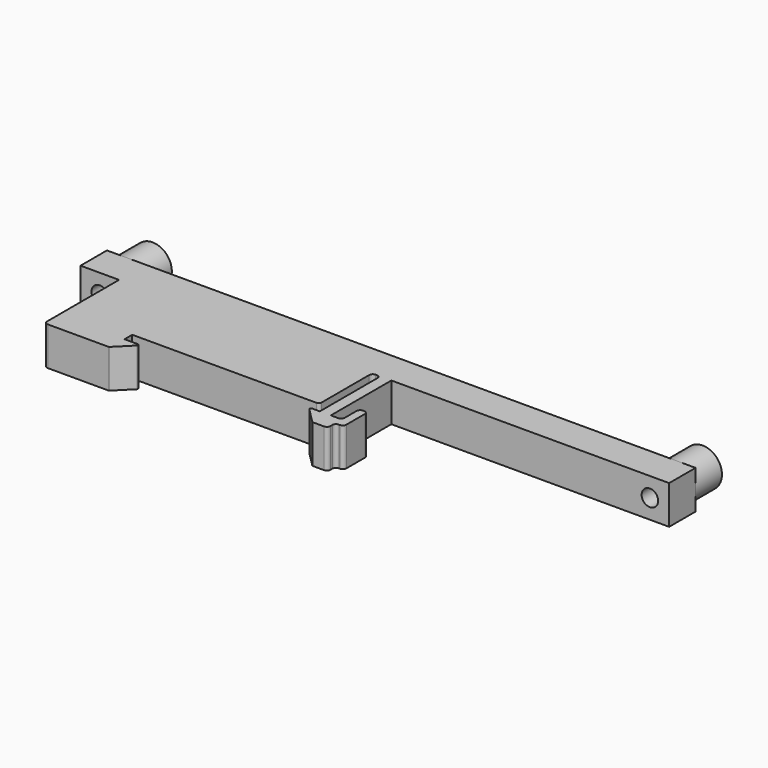
from build123d import *

# Parameters (mm, degrees)
F1_DEPTH = 3.5
F2_R     = 3.5
F3_DEPTH = 6
F4_R     = 1.5
F5_DEPTH = 29.001


with BuildPart() as f1:
    # F0 (on Top) → F1 (new body, symmetric)
    with BuildSketch(Plane.XY):
        with BuildLine():
            Line((0, -1.75), (0, 0))
            Line((0, 0), (33.5, 0))
            ThreePointArc((33.5, 0), (33.8535533906, 0.1464466094), (34, 0.5))
            Line((34, 0.5), (34, 11.35))
            ThreePointArc((34, 11.35), (34.1903805922, 11.8096194078), (34.65, 12))
            Line((34.65, 12), (34.85, 12))
            ThreePointArc((34.85, 12), (35.3096194078, 11.8096194078), (35.5, 11.35))
            Line((35.5, 11.35), (35.5, -1.75))
            Line((35.5, -1.75), (34.1035533906, -1.75))
            ThreePointArc((34.1035533906, -1.75), (33.8725835075, -1.9043291419), (33.9267766953, -2.1767766953))
            Line((33.9267766953, -2.1767766953), (36.6767766953, -4.9267766953))
            ThreePointArc((36.6767766953, -4.9267766953), (36.7578825325, -4.9809698831), (36.8535533906, -5))
            Line((36.8535533906, -5), (38.85, -5))
            ThreePointArc((38.85, -5), (39.3096194078, -4.8096194078), (39.5, -4.35))
            Line((39.5, -4.35), (39.5, -3.9))
            ThreePointArc((39.5, -3.9), (39.6903805922, -3.4403805922), (40.15, -3.25))
            Line((40.15, -3.25), (40.35, -3.25))
            ThreePointArc((40.35, -3.25), (40.8096194078, -3.0596194078), (41, -2.6))
            Line((41, -2.6), (41, 1.6))
            ThreePointArc((41, 1.6), (40.8096194078, 2.0596194078), (40.35, 2.25))
            Line((40.35, 2.25), (40.15, 2.25))
            ThreePointArc((40.15, 2.25), (39.6903805922, 2.0596194078), (39.5, 1.6))
            Line((39.5, 1.6), (39.5, -1.1))
            ThreePointArc((39.5, -1.1), (39.3096194078, -1.5596194078), (38.85, -1.75))
            Line((38.85, -1.75), (37.5, -1.75))
            Line((37.5, -1.75), (37.5, 11.96))
            ThreePointArc((37.5, 11.96), (37.5117157288, 11.9882842712), (37.54, 12))
            Line((37.54, 12), (88, 12))
            Line((88, 12), (88, 18))
            Line((88, 18), (-19, 18))
            Line((-19, 18), (-19, 12))
            Line((-19, 12), (-12, 12))
            Line((-12, 12), (-12, -4.35))
            ThreePointArc((-12, -4.35), (-11.8096194078, -4.8096194078), (-11.35, -5))
            Line((-11.35, -5), (-0.3535533906, -5))
            ThreePointArc((-0.3535533906, -5), (-0.2578825325, -4.9809698831), (-0.1767766953, -4.9267766953))
            Line((-0.1767766953, -4.9267766953), (2.5732233047, -2.1767766953))
            ThreePointArc((2.5732233047, -2.1767766953), (2.6274164925, -1.9043291419), (2.3964466094, -1.75))
            Line((2.3964466094, -1.75), (0, -1.75))
        make_face()
    extrude(amount=F1_DEPTH, both=True)

    # F2 (on face) → F3 (join)
    with BuildSketch(Plane(origin=(0, 18, 0), x_dir=(-1, 0, 0), z_dir=(0, 1, 0))):
        with Locations((-84.5, 0)):
            Circle(F2_R)
        with Locations((15.5, 0)):
            Circle(F2_R)
    extrude(amount=F3_DEPTH)

    # F4 (on face) → F5 (cut, through all)
    with BuildSketch(Plane(origin=(0, 24, 0), x_dir=(-1, 0, 0), z_dir=(0, 1, 0))):
        with Locations((-84.5, 0)):
            Circle(F4_R)
        with Locations((15.5, 0)):
            Circle(F4_R)
    extrude(amount=-F5_DEPTH, mode=Mode.SUBTRACT)


solid = f1.part
